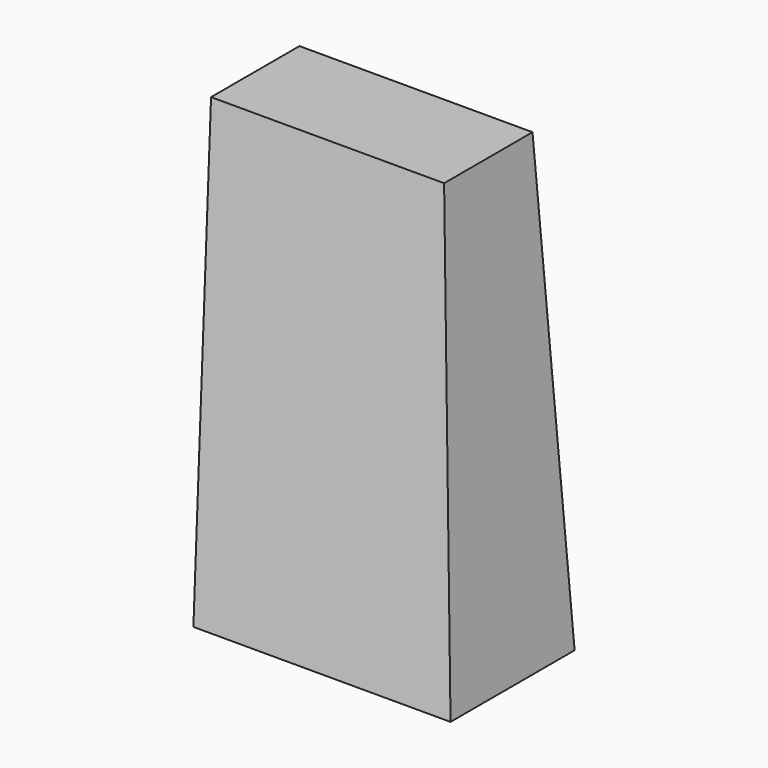
from build123d import *

# Parameters (mm, degrees)
F1_W = 70.69782
F1_H = 33.519715
F2_W = 78.001239
F2_H = 47.048978


with BuildPart() as f3:
    # F1 (on offset) → F3 section 0
    with BuildSketch(Plane.XY.offset(127)):
        with Locations((-17.007993, 16.759857)):
            Rectangle(F1_W, F1_H)
    # F2 (on Top) → F3 section 1
    with BuildSketch(Plane.XY):
        with Locations((0.749175, -0.804305)):
            Rectangle(F2_W, F2_H)
    loft()


solid = f3.part
